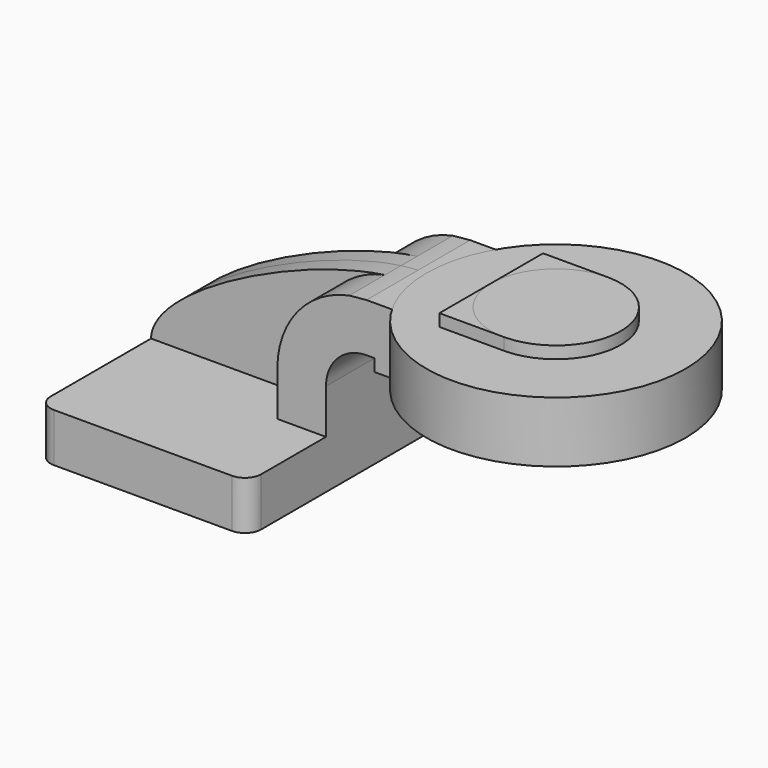
from build123d import *

# Parameters (mm, degrees)
F1_DEPTH = 63.5
F2_DEPTH = 25.4
F3_DEPTH = 7.9375
F5_R     = 6.35


with BuildPart() as f1:
    # F0 (on Front) → F1 (new body, symmetric)
    with BuildSketch(Plane.XZ):
        Polygon((-41.275, 9.525), (-41.275, -9.525), (41.275, -9.525), (41.275, 9.525), (22.225, 9.525), align=None)
    extrude(amount=F1_DEPTH, both=True)

    # F0 (on Front) → F2 (join, symmetric)
    with BuildSketch(Plane.XZ):
        with BuildLine():
            Line((22.225, 9.525), (41.275, 9.525))
            Line((41.275, 9.525), (41.275, 27.0002))
            ThreePointArc((41.275, 27.0002), (45.92468, 38.22552), (57.15, 42.8752))
            Line((57.15, 42.8752), (60.325, 42.8752))
            Line((60.325, 42.8752), (60.325, 61.9252))
            Line((60.325, 61.9252), (57.15, 61.9252))
            add(Edge.make_bspline(
                [(50.378043, 61.262369), (52.755617, 61.599331), (55.021899, 61.823915), (57.15, 61.9252)],
                knots=[104.249489, 104.249489, 104.249489, 104.249489, 111.504536, 111.504536, 111.504536, 111.504536], degree=3))
            ThreePointArc((50.378043, 61.262369), (30.166058, 49.172762), (22.225, 27.0002))
            Line((22.225, 27.0002), (22.225, 9.525))
        make_face()
        Polygon((85.725, 61.9252), (60.325, 61.9252), (60.325, 42.8752), (60.325, 38.1), (111.125, 38.1), (111.125, 66.675), (85.725, 66.675), align=None)
    extrude(amount=F2_DEPTH, both=True)

    # F0 (on Front) → F3 (join, symmetric)
    with BuildSketch(Plane.XZ):
        with BuildLine():
            add(Edge.make_bspline(
                [(-41.275, 9.525), (-40.928833, 28.375253), (16.214118, 56.42048), (50.378043, 61.262369)],
                knots=[0, 0, 0, 0, 104.249489, 104.249489, 104.249489, 104.249489], degree=3))
            Line((-41.275, 9.525), (22.225, 9.525))
            Line((22.225, 9.525), (22.225, 27.0002))
            ThreePointArc((22.225, 27.0002), (30.166058, 49.172762), (50.378043, 61.262369))
        make_face()
    extrude(amount=F3_DEPTH, both=True)

    # F5
    f5_edges = [f1.edges().sort_by_distance(p)[0] for p in [
        (-41.275, -63.5, 0),
        (41.275, -63.5, 0),
        (41.275, 63.5, 0),
        (-41.275, 63.5, 0),
    ]]
    fillet(f5_edges, radius=F5_R)


with BuildPart() as f4:
    # F0 (on Front) → F4 (revolve)
    with BuildSketch(Plane.XZ):
        Polygon((85.725, 61.9252), (60.325, 61.9252), (60.325, 42.8752), (60.325, 38.1), (111.125, 38.1), (111.125, 66.675), (85.725, 66.675), align=None)
    revolve(axis=Axis((111.125, 0, 52.3875), (0, 0, 1)))


solid = Compound([f1.part, f4.part])
